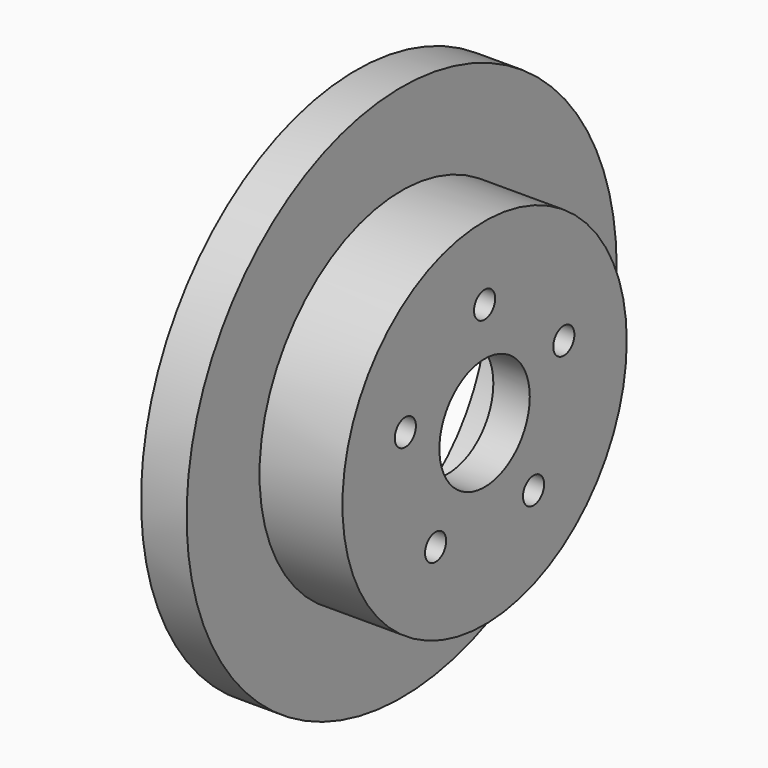
from build123d import *

# Parameters (mm, degrees)
F0_R     = 147.5
F0_R_2   = 97.5
F1_DEPTH = 25
F0_R_3   = 90
F2_DEPTH = 50.5
F4_R     = 97.5
F4_R_2   = 7.25
F4_R_3   = 31
F5_DEPTH = 20


with BuildPart() as f1:
    # F0 (on Right) → F1 (new body)
    with BuildSketch(Plane.YZ):
        Circle(F0_R)
        Circle(F0_R_2, mode=Mode.SUBTRACT)
    extrude(amount=F1_DEPTH)

    # F0 (on Right) → F2 (join)
    with BuildSketch(Plane.YZ):
        Circle(F0_R_2)
        Circle(F0_R_3, mode=Mode.SUBTRACT)
    extrude(amount=F2_DEPTH)

    # F4 (on offset) → F5 (join)
    with BuildSketch(Plane.YZ.offset(50.5)):
        Circle(F4_R)
        with Locations((-33.591927, -46.235321)):
            Circle(F4_R_2, mode=Mode.SUBTRACT)
        with Locations((33.591927, -46.235321)):
            Circle(F4_R_2, mode=Mode.SUBTRACT)
        with Locations((-54.35288, 17.660321)):
            Circle(F4_R_2, mode=Mode.SUBTRACT)
        Circle(F4_R_3, mode=Mode.SUBTRACT)
        with Locations((54.35288, 17.660321)):
            Circle(F4_R_2, mode=Mode.SUBTRACT)
        with Locations((0, 57.15)):
            Circle(F4_R_2, mode=Mode.SUBTRACT)
    extrude(amount=F5_DEPTH)


solid = f1.part
